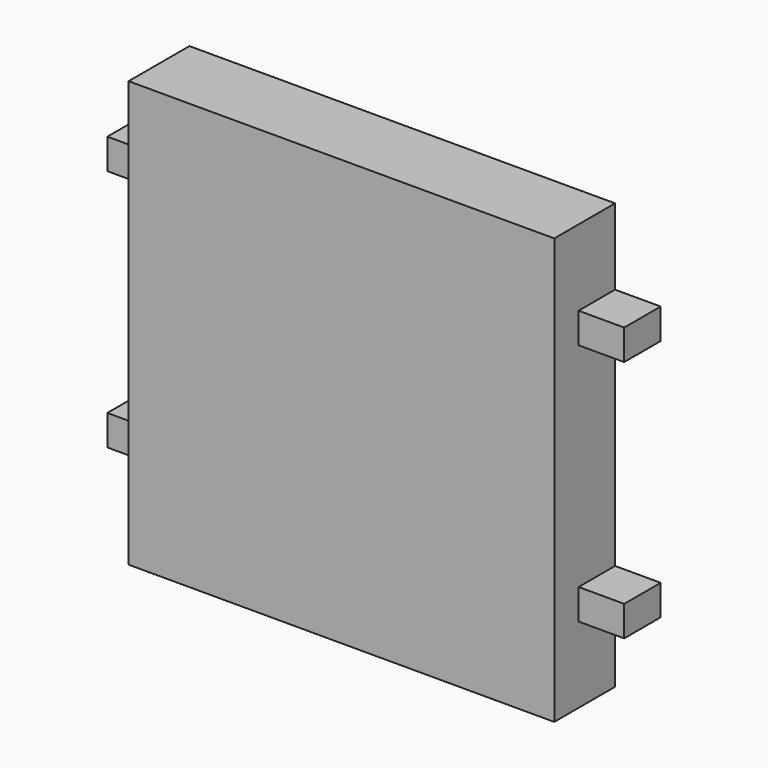
from build123d import *

# Parameters (mm, degrees)
F0_W     = 35.56
F0_H     = 35.56
F1_DEPTH = 6.35
F2_W     = 3.81
F2_H     = 2.54
F3_DEPTH = 3.81
F4_W     = 3.81
F4_H     = 2.54
F5_DEPTH = 3.81


with BuildPart() as f1:
    # F0 (on Front) → F1 (new body)
    with BuildSketch(Plane.XZ):
        Rectangle(F0_W, F0_H)
    extrude(amount=F1_DEPTH)

    # F2 (on face) → F3 (join)
    with BuildSketch(Plane.YZ.offset(17.78)):
        with Locations((-1.905, 10.16)):
            Rectangle(F2_W, F2_H)
        with Locations((-1.905, -10.16)):
            Rectangle(F2_W, F2_H)
    extrude(amount=F3_DEPTH)

    # F4 (on face) → F5 (join)
    with BuildSketch(Plane(origin=(-17.78, 0, 0), x_dir=(0, -1, 0), z_dir=(-1, 0, 0))):
        with Locations((1.905, 10.16)):
            Rectangle(F4_W, F4_H)
        with Locations((1.905, -10.16)):
            Rectangle(F4_W, F4_H)
    extrude(amount=F5_DEPTH)


solid = f1.part
